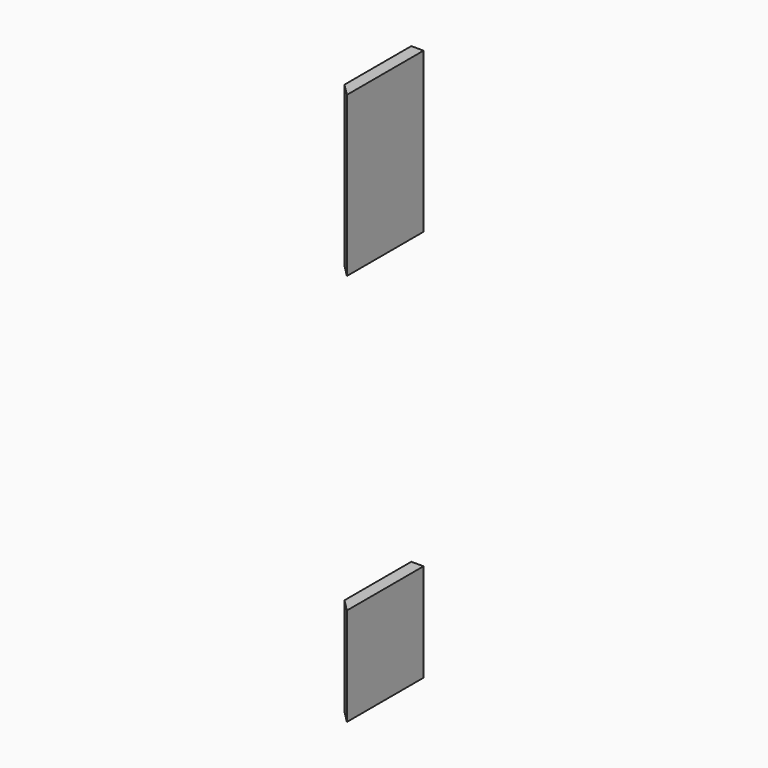
from build123d import *

# Parameters (mm, degrees)
BOX022_W              = 1
BOX022_H              = 7.8
BOX022_DEPTH          = 13
BOX013_W              = 1
BOX013_H              = 7.8
BOX013_DEPTH          = 8
CHAMFER020026007_SIZE = 0.99


with BuildPart() as cube022:
    # Box022 → Box022 (new body)
    with BuildSketch(Plane(origin=(-1, 11.1, 26), x_dir=(1, 0, 0), z_dir=(0, 0, 1))):
        with Locations((0.5, 3.9)):
            Rectangle(BOX022_W, BOX022_H)
    extrude(amount=BOX022_DEPTH)


with BuildPart() as chamfer020026007:
    # Box013 → Box013 (new body)
    with BuildSketch(Plane(origin=(-1, 11.1, -6), x_dir=(1, 0, 0), z_dir=(0, 0, 1))):
        with Locations((0.5, 3.9)):
            Rectangle(BOX013_W, BOX013_H)
    extrude(amount=BOX013_DEPTH)

    # Fusion: union Cube022
    add(cube022.part)

    # Chamfer020026007
    chamfer020026007_edges = [chamfer020026007.edges().sort_by_distance(p)[0] for p in [
        (-1, 11.1, -2),
        (-1, 11.1, 32.5),
    ]]
    chamfer(chamfer020026007_edges, length=CHAMFER020026007_SIZE)


solid = chamfer020026007.part
